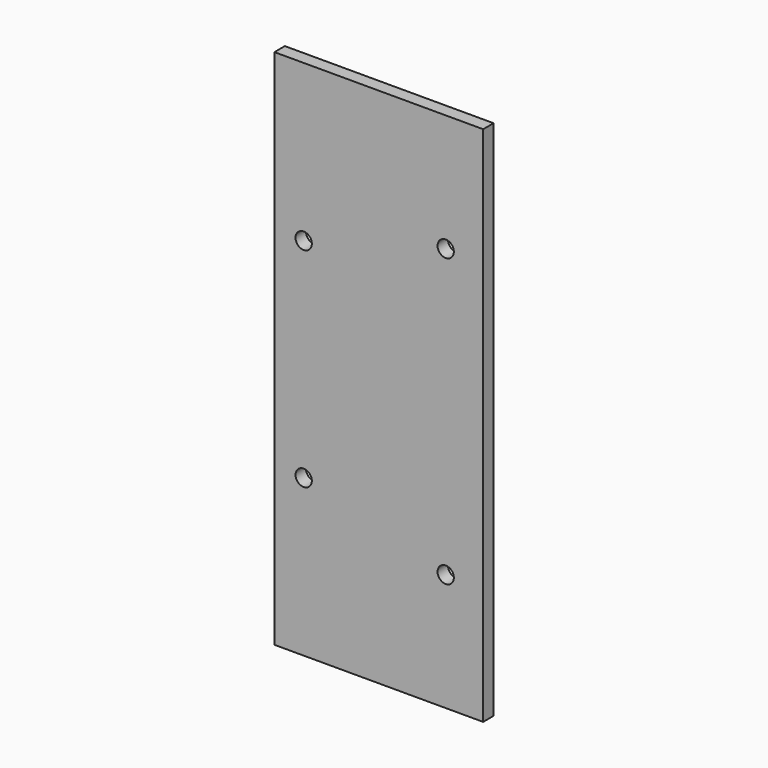
from build123d import *

# Parameters (mm, degrees)
F0_W     = 101.6
F0_H     = 254
F1_DEPTH = 6.35
F3_D     = 7.9375
F5_D     = 7.9375


with BuildPart() as f1:
    # F0 (on Front) → F1 (new body)
    with BuildSketch(Plane.XZ):
        with Locations((50.8, 127)):
            Rectangle(F0_W, F0_H)
    extrude(amount=F1_DEPTH)

    # F3 (through all)
    with Locations(Plane.XZ.offset(6.35)):
        with Locations((83.376482, 57.15), (83.376482, 196.85)):
            Hole(F3_D / 2)

    # F5 (through all)
    with Locations(Plane.XZ.offset(6.35)):
        with Locations((14.246169, 76.2), (14.246169, 177.8)):
            Hole(F5_D / 2)


solid = f1.part
